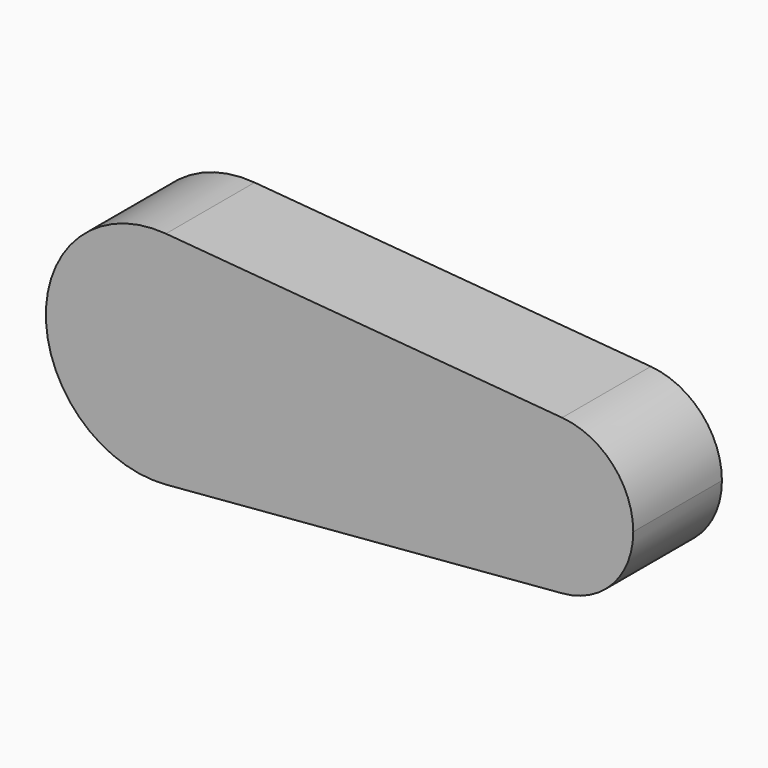
from build123d import *

# Parameters (mm, degrees)
F1_DEPTH = 25


with BuildPart() as f1:
    # F0 (on Front) → F1 (new body)
    with BuildSketch(Plane.XZ):
        with BuildLine():
            ThreePointArc((107.5, 0), (102.879651, 11.847556), (91.458333, 17.43913))
            ThreePointArc((91.458333, 17.43913), (72.5, 0), (91.458333, -17.43913))
            ThreePointArc((91.458333, -17.43913), (102.879651, -11.847556), (107.5, 0))
        make_face()
        with BuildLine():
            ThreePointArc((2.083333, -24.913043), (18.399502, -16.92508), (25, 0))
            ThreePointArc((25, 0), (18.399502, 16.92508), (2.083333, 24.913043))
            ThreePointArc((2.083333, 24.913043), (-25, 0), (2.083333, -24.913043))
        make_face()
        with BuildLine():
            ThreePointArc((2.083333, 24.913043), (18.399502, 16.92508), (25, 0))
            ThreePointArc((25, 0), (18.399502, -16.92508), (2.083333, -24.913043))
            Line((2.083333, -24.913043), (91.458333, -17.43913))
            ThreePointArc((91.458333, -17.43913), (72.5, 0), (91.458333, 17.43913))
            Line((91.458333, 17.43913), (2.083333, 24.913043))
        make_face()
    extrude(amount=F1_DEPTH)


solid = f1.part
